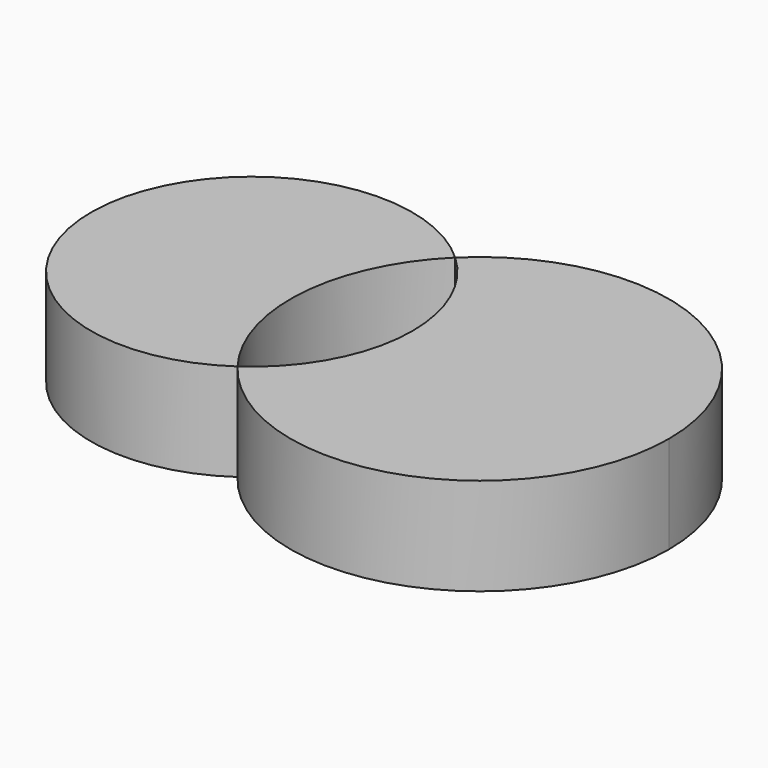
from build123d import *

# Parameters (mm, degrees)
F1_DEPTH = 25.4


with BuildPart() as f1:
    # F0 (on Top) → F1 (new body)
    with BuildSketch(Plane.XY):
        with BuildLine():
            ThreePointArc((-39.216402, -29.998759), (-49.251043, 3.490912), (-34.592963, 35.230365))
            ThreePointArc((-34.592963, 35.230365), (-104.896208, 7.43504), (-39.216402, -29.998759))
        make_face()
        with BuildLine():
            ThreePointArc((-39.216402, -29.998759), (15.835993, -46.766153), (49.374606, 0))
            ThreePointArc((49.374606, 0), (19.10285, 45.529472), (-34.592963, 35.230365))
            ThreePointArc((-34.592963, 35.230365), (-24.661123, 21.254285), (-21.155029, 4.470972))
            ThreePointArc((-21.155029, 4.470972), (-25.943887, -14.986517), (-39.216402, -29.998759))
        make_face()
    extrude(amount=-F1_DEPTH)


solid = f1.part
